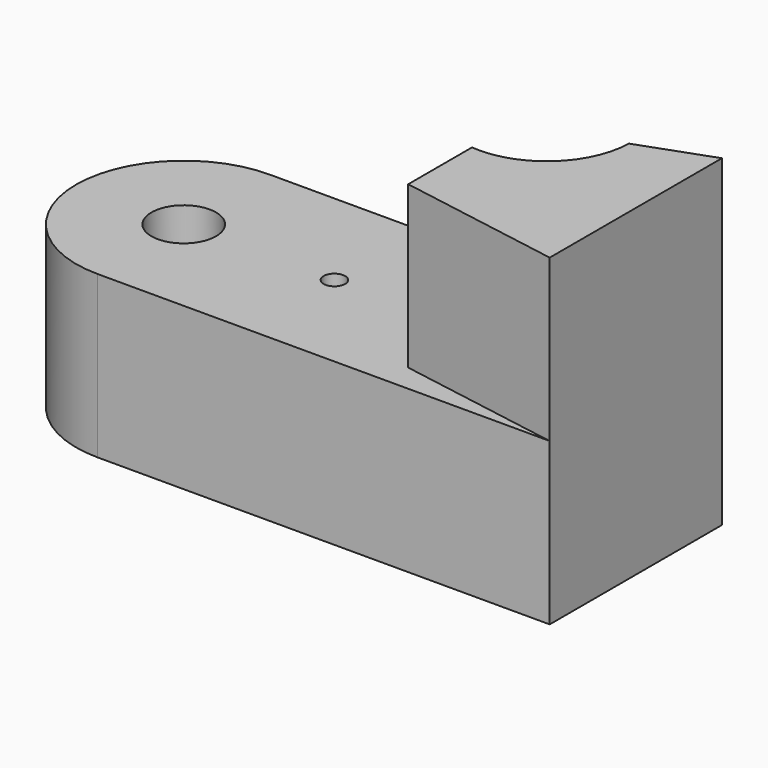
from build123d import *

# Parameters (mm, degrees)
PAD_DEPTH           = 30
SKETCH001_R         = 6
POCKET_DEPTH        = 11
SKETCH002_R         = 2
POCKET001_DEPTH     = 5
LINEARPATTERN_COUNT = 2
LINEARPATTERN_PITCH = 28
PAD001_DEPTH        = 30


with BuildPart() as part:
    # Sketch → Pad (new body)
    with BuildSketch(Plane.XY):
        with BuildLine():
            Line((0, 20), (-84, 20))
            ThreePointArc((-84, 20), (-104, 0), (-84, -20))
            Line((0, -20), (-84, -20))
            Line((0, 20), (0, -20))
        make_face()
    extrude(amount=PAD_DEPTH)

    # Sketch001 (on Face6 of Pad) → Pocket (cut)
    with BuildSketch(Plane.XY.offset(30)):
        with Locations((-84, 0)):
            Circle(SKETCH001_R)
    extrude(amount=-POCKET_DEPTH, mode=Mode.SUBTRACT)

    # Sketch002 (on Face5 of Pocket) → Pocket001 (cut)
    with BuildSketch(Plane.XY.offset(30)):
        with Locations((-56, 0)):
            Circle(SKETCH002_R)
    pocket001 = extrude(amount=-POCKET001_DEPTH, mode=Mode.SUBTRACT)

    # LinearPattern: Pocket001 ×2
    with Locations(*[(i * LINEARPATTERN_PITCH, 0, 0) for i in range(1, LINEARPATTERN_COUNT)]):
        add(pocket001, mode=Mode.SUBTRACT)

    # Sketch003 (on Face5 of LinearPattern) → Pad001 (join)
    with BuildSketch(Plane.XY.offset(30)):
        with BuildLine():
            Line((-30.44, -14.81438), (-30.44, 0))
            ThreePointArc((-30.44, 0), (-18.638963, 3.884356), (-13.414303, 15.156251))
            Line((0, 20), (-13.414303, 15.156251))
            Line((0, -20), (0, 20))
            Line((-30.44, -14.81438), (0, -20))
        make_face()
    extrude(amount=PAD001_DEPTH)


solid = part.part
